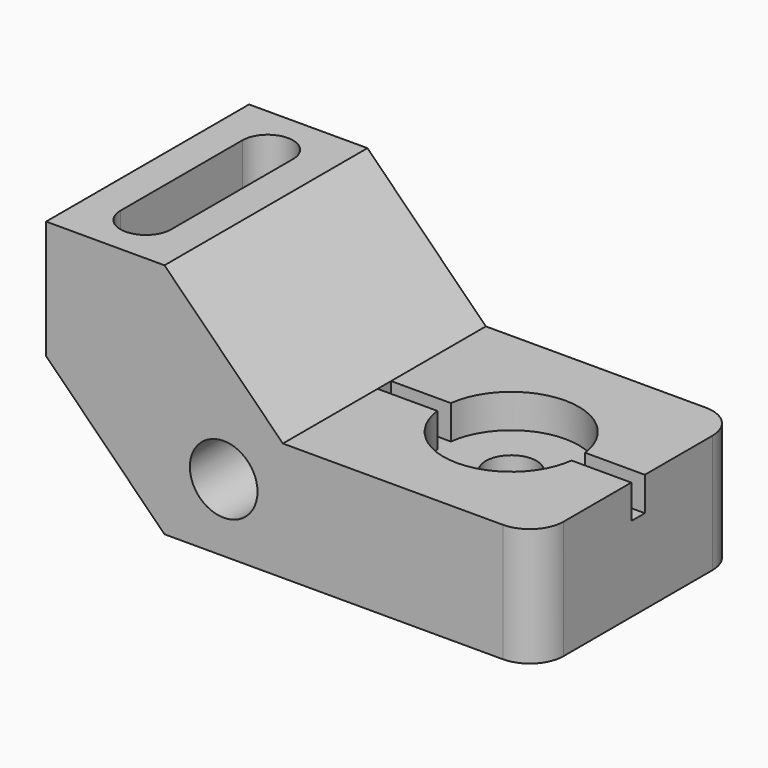
from build123d import *

# Parameters (mm, degrees)
F1_DEPTH  = 76.2
F2_R      = 10.16
F3_R      = 10.16
F4_DEPTH  = 76.201
F6_DEPTH  = 27.94
F8_DEPTH  = 10.16
F9_R      = 7.62
F10_DEPTH = 25.401


with BuildPart() as f1:
    # F0 (on Front) → F1 (new body)
    with BuildSketch(Plane.XZ):
        Polygon((-35.56, 35.56), (0, 0), (111.76, 0), (111.76, 35.56), (35.56, 35.56), (0, 71.12), (-35.56, 71.12), align=None)
    extrude(amount=F1_DEPTH)

    # F2
    f2_edges = [f1.edges().sort_by_distance(p)[0] for p in [
        (111.76, -76.2, 17.78),
        (111.76, 0, 17.78),
    ]]
    fillet(f2_edges, radius=F2_R)

    # F3 (on face) → F4 (cut, through all)
    with BuildSketch(Plane.XZ.offset(76.2)):
        with Locations((17.78, 20.32)):
            Circle(F3_R)
    extrude(amount=-F4_DEPTH, mode=Mode.SUBTRACT)

    # F5 (on face) → F6 (cut)
    with BuildSketch(Plane.XY.offset(71.12)):
        with BuildLine():
            Line((-10.16, -60.96), (-10.16, -15.24))
            ThreePointArc((-10.16, -15.24), (-17.78, -7.62), (-25.4, -15.24))
            Line((-25.4, -15.24), (-25.4, -60.96))
            ThreePointArc((-25.4, -60.96), (-17.78, -68.58), (-10.16, -60.96))
        make_face()
    extrude(amount=-F6_DEPTH, mode=Mode.SUBTRACT)

    # F7 (on face) → F8 (cut)
    with BuildSketch(Plane.XY.offset(35.56)):
        with BuildLine():
            ThreePointArc((93.820625, -40.64), (93.940117, -39.372498), (93.98, -38.1))
            ThreePointArc((93.98, -38.1), (93.940117, -36.827502), (93.820625, -35.56))
            ThreePointArc((93.820625, -35.56), (73.66, -17.78), (53.499375, -35.56))
            ThreePointArc((53.499375, -35.56), (53.34, -38.1), (53.499375, -40.64))
            ThreePointArc((53.499375, -40.64), (73.66, -58.42), (93.820625, -40.64))
        make_face()
        with BuildLine():
            ThreePointArc((93.820625, -35.56), (93.940117, -36.827502), (93.98, -38.1))
            ThreePointArc((93.98, -38.1), (93.940117, -39.372498), (93.820625, -40.64))
            Line((93.820625, -40.64), (111.76, -40.64))
            Line((111.76, -40.64), (111.76, -35.56))
            Line((111.76, -35.56), (93.820625, -35.56))
        make_face()
        with BuildLine():
            ThreePointArc((53.499375, -40.64), (53.34, -38.1), (53.499375, -35.56))
            Line((53.499375, -35.56), (35.56, -35.56))
            Line((35.56, -35.56), (35.56, -40.64))
            Line((35.56, -40.64), (53.499375, -40.64))
        make_face()
    extrude(amount=-F8_DEPTH, mode=Mode.SUBTRACT)

    # F9 (on face) → F10 (cut, through all)
    with BuildSketch(Plane.XY.offset(25.4)):
        with Locations((73.66, -38.1)):
            Circle(F9_R)
    extrude(amount=-F10_DEPTH, mode=Mode.SUBTRACT)


solid = f1.part
